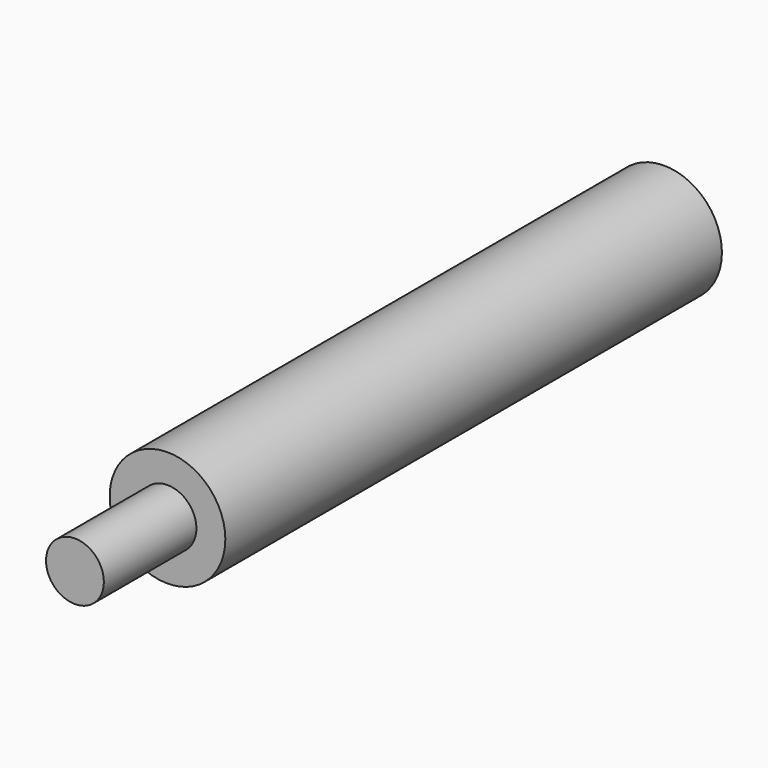
from build123d import *

# Parameters (mm, degrees)
F0_R           = 6.35
F1_DEPTH       = 93.5482
F2_R           = 6.35
F2_R_2         = 3.175
F3_DEPTH       = 12.7
F5_D           = 5.5118
F5_DEPTH       = 50.8
F5_CBORE_D     = 12.7
F5_CBORE_DEPTH = 12.7
F5_TIP         = 1.65591178


with BuildPart() as f1:
    # F0 (on Front) → F1 (new body)
    with BuildSketch(Plane.XZ):
        Circle(F0_R)
    extrude(amount=F1_DEPTH)

    # F2 (on face) → F3 (cut)
    with BuildSketch(Plane.XZ.offset(93.5482)):
        Circle(F2_R)
        Circle(F2_R_2, mode=Mode.SUBTRACT)
    extrude(amount=-F3_DEPTH, mode=Mode.SUBTRACT)

    # F5
    with Locations(Plane(origin=(0, 0, 0), x_dir=(-1, 0, 0), z_dir=(0, 1, 0))):
        with Locations((0, 0)):
            CounterBoreHole(F5_D / 2, F5_CBORE_D / 2, F5_CBORE_DEPTH, depth=F5_DEPTH)
            with Locations((0, 0, -(F5_DEPTH + F5_TIP / 2))):  # 118° drill point
                Cone(0, F5_D / 2, F5_TIP, mode=Mode.SUBTRACT)


solid = f1.part
